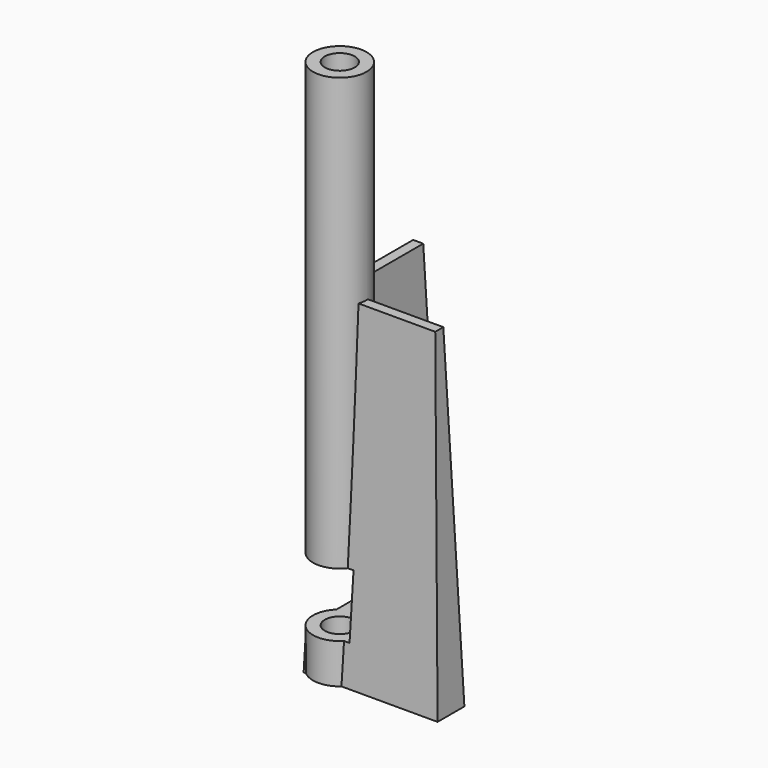
from build123d import *

# Parameters (mm, degrees)
F1_DEPTH = 10
F1_TAPER = 2
F2_R     = 0.8
F3_DEPTH = 16
F4_R     = 0.4470893967
F5_DEPTH = 16.001
F7_W     = 2.1553949919
F7_H     = 1.9043667708
F8_DEPTH = 25


with BuildPart() as f1:
    # F0 (on Top) → F1 (new body)
    with BuildSketch(Plane.XY):
        Polygon((1, 4), (0, 4), (0, 0), (4, 0), (4, 1), (1, 1), align=None)
    extrude(amount=F1_DEPTH, taper=F1_TAPER)

    # F2 (on Top) → F3 (join)
    with BuildSketch(Plane.XY):
        with Locations((0.6, 0.6)):
            Circle(F2_R)
    extrude(amount=F3_DEPTH)

    # F4 (on face) → F5 (cut, through all)
    with BuildSketch(Plane.XY.offset(16)):
        with Locations((0.6, 0.6)):
            Circle(F4_R)
    extrude(amount=-F5_DEPTH, mode=Mode.SUBTRACT)

    # F7 (on face) → F8 (cut)
    with BuildSketch(Plane(origin=(2.0024329828, 1.9999985183, 8.50134e-05), x_dir=(0.7066765544, -0.7075367458, 3.0002e-05), z_dir=(-0.7075367451, -0.706676555, -3.00385e-05))):
        with Locations((-0.1619784161, 2.1438767435)):
            Rectangle(F7_W, F7_H)
    extrude(amount=F8_DEPTH, mode=Mode.SUBTRACT)


solid = f1.part
